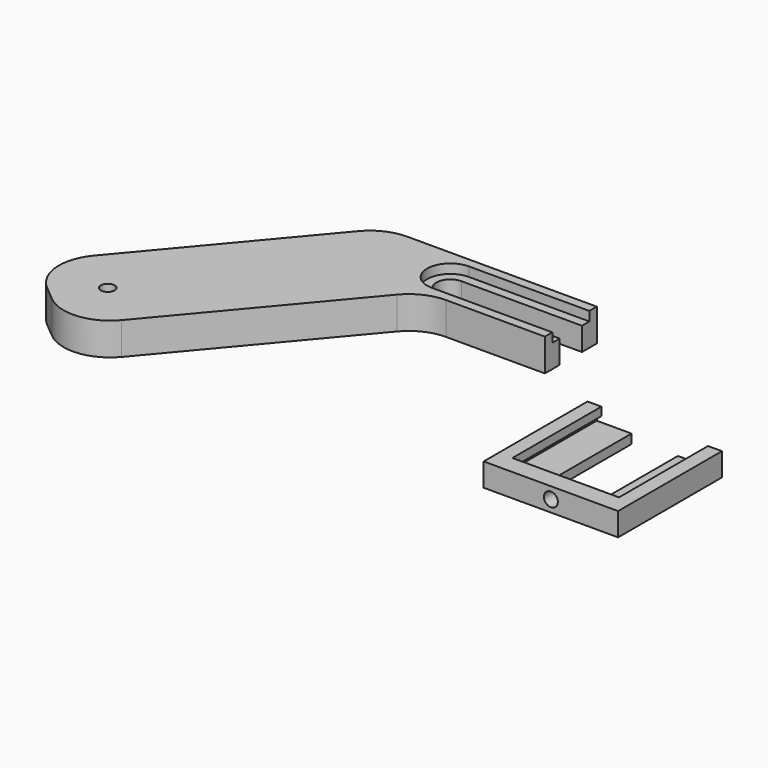
from build123d import *

# Parameters (mm, degrees)
F0_R     = 1.5
F1_DEPTH = 7
F3_DEPTH = 2
F4_W     = 29
F4_H     = 28
F4_W_2   = 25
F4_H_2   = 24
F5_DEPTH = 5
F7_DEPTH = 24
F8_R     = 1.5
F9_DEPTH = 25


with BuildPart() as f1:
    # F0 (on Top) → F1 (new body)
    with BuildSketch(Plane.XY):
        with BuildLine():
            Line((0, 3), (0, 7))
            Line((0, 7), (-40.919304, 7))
            ThreePointArc((-40.919304, 7), (-45.145486, 6.063078), (-48.579748, 3.427876))
            Line((-48.579748, 3.427876), (-77.810022, -31.407408))
            ThreePointArc((-77.810022, -31.407408), (-80.111525, -38.706842), (-76.577454, -45.495729))
            Line((-76.577454, -45.495729), (-73.513276, -48.066879))
            ThreePointArc((-73.513276, -48.066879), (-66.213843, -50.368382), (-59.424956, -46.834311))
            Line((-59.424956, -46.834311), (-28.997368, -10.572124))
            ThreePointArc((-28.997368, -10.572124), (-25.563106, -7.936922), (-21.336923, -7))
            Line((-21.336923, -7), (0, -7))
            Line((0, -7), (0, -3))
            Line((0, -3), (-26, -3))
            ThreePointArc((-26, -3), (-29, 0), (-26, 3))
            Line((-26, 3), (0, 3))
        make_face()
        with Locations((-68.617489, -39.12086)):
            Circle(F0_R, mode=Mode.SUBTRACT)
    extrude(amount=F1_DEPTH)

    # F2 (on face) → F3 (cut)
    with BuildSketch(Plane.XY.offset(7)):
        with BuildLine():
            Line((0, 5), (-26, 5))
            ThreePointArc((-26, 5), (-31, 0), (-26, -5))
            Line((-26, -5), (0, -5))
            Line((0, -5), (0, -3))
            Line((0, -3), (-26, -3))
            ThreePointArc((-26, -3), (-29, 0), (-26, 3))
            Line((-26, 3), (0, 3))
            Line((0, 3), (0, 5))
        make_face()
    extrude(amount=-F3_DEPTH, mode=Mode.SUBTRACT)


with BuildPart() as f5:
    # F4 (on Top) → F5 (new body)
    with BuildSketch(Plane.XY):
        with Locations((32.5, -32)):
            Rectangle(F4_W, F4_H)
        with Locations((32.5, -32)):
            Rectangle(F4_W_2, F4_H_2, mode=Mode.SUBTRACT)
        with Locations((32.5, -32)):
            Rectangle(F4_W_2, F4_H_2)
    extrude(amount=F5_DEPTH)

    # F6 (on face) → F7 (cut)
    with BuildSketch(Plane(origin=(0, -18, 0), x_dir=(-1, 0, 0), z_dir=(0, 1, 0))):
        Polygon((-44, 3.2), (-45, 3.2), (-45, 2), (-42, 2), (-42, 1), (-37.5, 1), (-37.5, 0), (-27.5, 0), (-27.5, 2), (-20, 2), (-20, 3.2), (-21, 3.2), (-21, 5), (-44, 5), align=None)
    extrude(amount=-F7_DEPTH, mode=Mode.SUBTRACT)

    # F8 (on face) → F9 (cut)
    with BuildSketch(Plane(origin=(0, -42, 0), x_dir=(-1, 0, 0), z_dir=(0, 1, 0))):
        with Locations((-32.5, 2.5)):
            Circle(F8_R)
    extrude(amount=-F9_DEPTH, mode=Mode.SUBTRACT)


solid = Compound([f1.part, f5.part])
